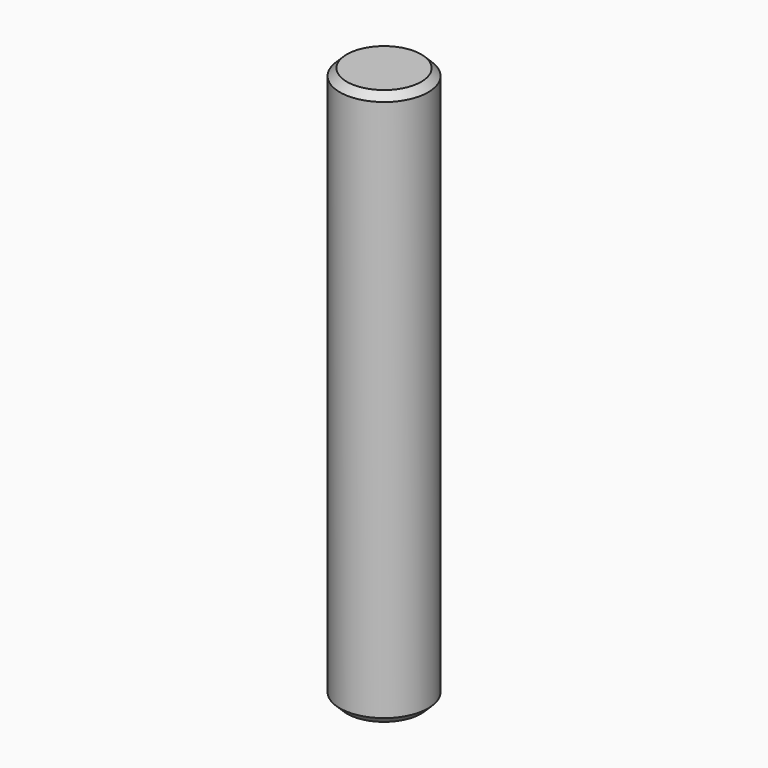
from build123d import *

# Parameters (mm, degrees)
SKETCH_R     = 3.175
PAD_DEPTH    = 40
CHAMFER_SIZE = 0.5


with BuildPart() as part:
    # Sketch → Pad (new body)
    with BuildSketch(Plane.XY):
        Circle(SKETCH_R)
    extrude(amount=PAD_DEPTH)

    # Chamfer
    chamfer_edges = [part.edges().sort_by_distance(p)[0] for p in [
        (-3.175, 0, 40),
        (-3.175, 0, 0),
    ]]
    chamfer(chamfer_edges, length=CHAMFER_SIZE)


solid = part.part
